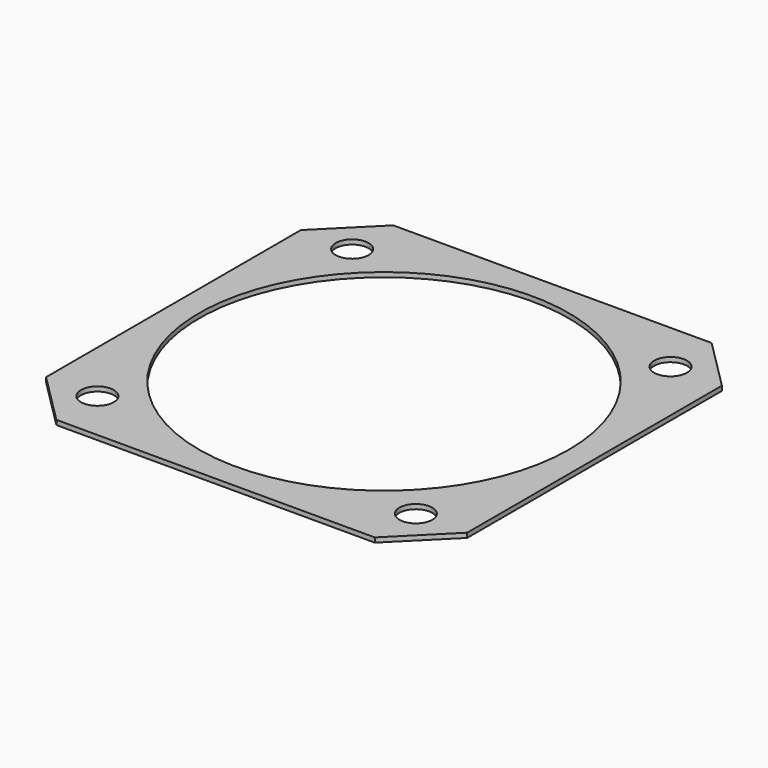
from build123d import *

# Parameters (mm, degrees)
CYLINDER014005163_R     = 1.6
CYLINDER014005163_DEPTH = 50
CYLINDER014005162_R     = 18
CYLINDER014005162_DEPTH = 50
CYLINDER014005160_R     = 1.6
CYLINDER014005160_DEPTH = 50
CYLINDER014005159_R     = 1.6
CYLINDER014005159_DEPTH = 50
CYLINDER014005161_R     = 1.6
CYLINDER014005161_DEPTH = 50
BOX011_W                = 41
BOX011_H                = 41
BOX011_DEPTH            = 0.45
CHAMFER002_SIZE         = 5


with BuildPart() as obj1:
    # Cylinder014005163 → Cylinder014005163 (new body)
    with BuildSketch(Plane(origin=(15.5, 15.5, 0), x_dir=(1, 0, 0), z_dir=(0, 0, 1))):
        Circle(CYLINDER014005163_R)
    extrude(amount=CYLINDER014005163_DEPTH)


with BuildPart() as obj2:
    # Cylinder014005162 → Cylinder014005162 (new body)
    with BuildSketch(Plane.XY):
        Circle(CYLINDER014005162_R)
    extrude(amount=CYLINDER014005162_DEPTH)


with BuildPart() as obj3:
    # Cylinder014005160 → Cylinder014005160 (new body)
    with BuildSketch(Plane(origin=(-15.5, -15.5, 0), x_dir=(1, 0, 0), z_dir=(0, 0, 1))):
        Circle(CYLINDER014005160_R)
    extrude(amount=CYLINDER014005160_DEPTH)


with BuildPart() as obj4:
    # Cylinder014005159 → Cylinder014005159 (new body)
    with BuildSketch(Plane(origin=(15.5, -15.5, 0), x_dir=(1, 0, 0), z_dir=(0, 0, 1))):
        Circle(CYLINDER014005159_R)
    extrude(amount=CYLINDER014005159_DEPTH)


with BuildPart() as obj5:
    # Cylinder014005161 → Cylinder014005161 (new body)
    with BuildSketch(Plane(origin=(-15.5, 15.5, 0), x_dir=(1, 0, 0), z_dir=(0, 0, 1))):
        Circle(CYLINDER014005161_R)
    extrude(amount=CYLINDER014005161_DEPTH)

    # Fusion093: union obj1, obj2, obj3, obj4
    add(obj1.part)
    add(obj2.part)
    add(obj3.part)
    add(obj4.part)


with BuildPart() as cut061008:
    # Box011 → Box011 (new body)
    with BuildSketch(Plane(origin=(-20.5, -20.5, 0), x_dir=(1, 0, 0), z_dir=(0, 0, 1))):
        with Locations((20.5, 20.5)):
            Rectangle(BOX011_W, BOX011_H)
    extrude(amount=BOX011_DEPTH)

    # Chamfer002
    chamfer002_edges = [cut061008.edges().sort_by_distance(p)[0] for p in [
        (-20.5, -20.5, 0.225),
        (-20.5, 20.5, 0.225),
        (20.5, -20.5, 0.225),
        (20.5, 20.5, 0.225),
    ]]
    chamfer(chamfer002_edges, length=CHAMFER002_SIZE)

    # Cut061008: cut obj5
    add(obj5.part, mode=Mode.SUBTRACT)


solid = cut061008.part
